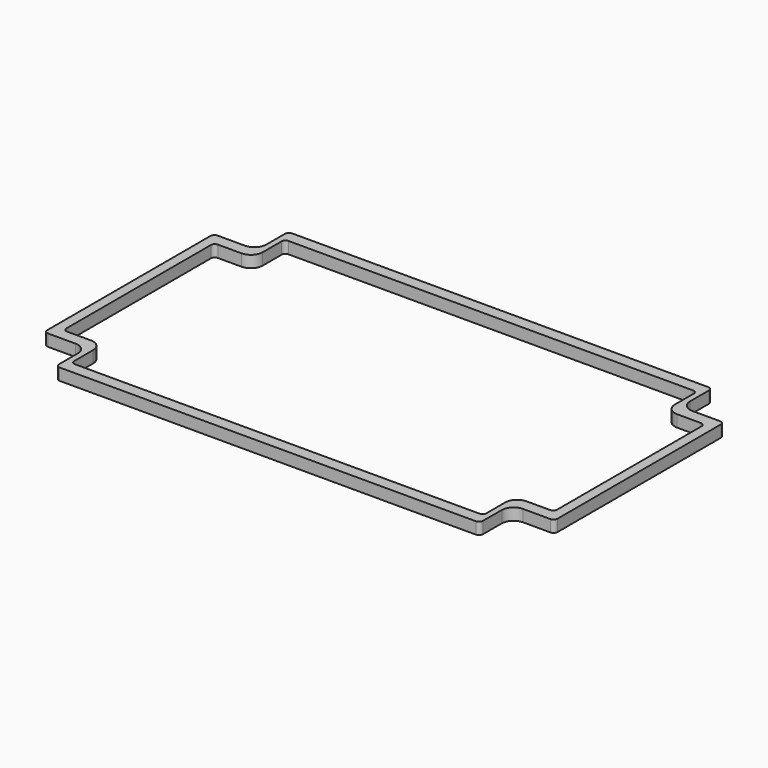
from build123d import *

# Parameters (mm, degrees)
F1_DEPTH = 3


with BuildPart() as f1:
    # F0 (on Top) → F1 (new body)
    with BuildSketch(Plane.XY):
        with BuildLine():
            Line((53, 37), (-53, 37))
            ThreePointArc((-53, 37), (-53.707107, 36.707107), (-54, 36))
            Line((-54, 36), (-54, 30))
            ThreePointArc((-54, 30), (-54.87868, 27.87868), (-57, 27))
            Line((-57, 27), (-64, 27))
            ThreePointArc((-64, 27), (-64.707107, 26.707107), (-65, 26))
            Line((-65, 26), (-65, -26))
            ThreePointArc((-65, -26), (-64.707107, -26.707107), (-64, -27))
            Line((-64, -27), (-57, -27))
            ThreePointArc((-57, -27), (-54.87868, -27.87868), (-54, -30))
            Line((-54, -30), (-54, -36))
            ThreePointArc((-54, -36), (-53.707107, -36.707107), (-53, -37))
            Line((-53, -37), (53, -37))
            ThreePointArc((53, -37), (53.707107, -36.707107), (54, -36))
            Line((54, -36), (54, -30))
            ThreePointArc((54, -30), (54.87868, -27.87868), (57, -27))
            Line((57, -27), (64, -27))
            ThreePointArc((64, -27), (64.707107, -26.707107), (65, -26))
            Line((65, -26), (65, 26))
            ThreePointArc((65, 26), (64.707107, 26.707107), (64, 27))
            Line((64, 27), (57, 27))
            ThreePointArc((57, 27), (54.87868, 27.87868), (54, 30))
            Line((54, 30), (54, 36))
            ThreePointArc((54, 36), (53.707107, 36.707107), (53, 37))
        make_face()
        with BuildLine():
            ThreePointArc((-52.5, 33), (-52.207107, 33.707107), (-51.5, 34))
            Line((-51.5, 34), (51.5, 34))
            ThreePointArc((51.5, 34), (52.207107, 33.707107), (52.5, 33))
            Line((52.5, 33), (52.5, 27))
            ThreePointArc((52.5, 27), (53.37868, 24.87868), (55.5, 24))
            Line((55.5, 24), (61.5, 24))
            ThreePointArc((61.5, 24), (62.207107, 23.707107), (62.5, 23))
            Line((62.5, 23), (62.5, -23))
            ThreePointArc((62.5, -23), (62.207107, -23.707107), (61.5, -24))
            Line((61.5, -24), (55.5, -24))
            ThreePointArc((55.5, -24), (53.37868, -24.87868), (52.5, -27))
            Line((52.5, -27), (52.5, -33))
            ThreePointArc((52.5, -33), (52.207107, -33.707107), (51.5, -34))
            Line((51.5, -34), (-51.5, -34))
            ThreePointArc((-51.5, -34), (-52.207107, -33.707107), (-52.5, -33))
            Line((-52.5, -33), (-52.5, -27))
            ThreePointArc((-52.5, -27), (-53.37868, -24.87868), (-55.5, -24))
            Line((-55.5, -24), (-61.5, -24))
            ThreePointArc((-61.5, -24), (-62.207107, -23.707107), (-62.5, -23))
            Line((-62.5, -23), (-62.5, 23))
            ThreePointArc((-62.5, 23), (-62.207107, 23.707107), (-61.5, 24))
            Line((-61.5, 24), (-55.5, 24))
            ThreePointArc((-55.5, 24), (-53.37868, 24.87868), (-52.5, 27))
            Line((-52.5, 27), (-52.5, 33))
        make_face(mode=Mode.SUBTRACT)
    extrude(amount=F1_DEPTH)


solid = f1.part
